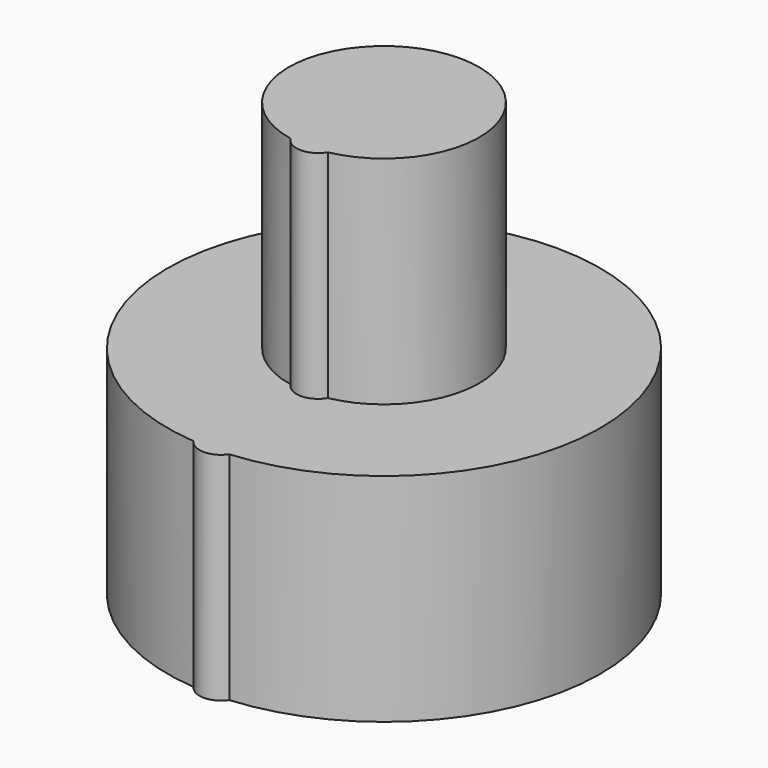
from build123d import *

# Parameters (mm, degrees)
CYLINDER007_R     = 5
CYLINDER007_DEPTH = 5
CYLINDER008_R     = 2.2
CYLINDER008_DEPTH = 10
CYLINDER006_R     = 0.5
CYLINDER006_DEPTH = 10
CYLINDER005_R     = 0.5
CYLINDER005_DEPTH = 5


with BuildPart() as cylinder006:
    # Cylinder007 → Cylinder007 (new body)
    with BuildSketch(Plane.XY):
        Circle(CYLINDER007_R)
    extrude(amount=CYLINDER007_DEPTH)


with BuildPart() as cylinder007:
    # Cylinder008 → Cylinder008 (new body)
    with BuildSketch(Plane.XY):
        Circle(CYLINDER008_R)
    extrude(amount=CYLINDER008_DEPTH)


with BuildPart() as cylinder005:
    # Cylinder006 → Cylinder006 (new body)
    with BuildSketch(Plane(origin=(0, -1.9, 0), x_dir=(1, 0, 0), z_dir=(0, 0, 1))):
        Circle(CYLINDER006_R)
    extrude(amount=CYLINDER006_DEPTH)


with BuildPart() as m4:
    # Cylinder005 → Cylinder005 (new body)
    with BuildSketch(Plane(origin=(0, -4.7, 0), x_dir=(1, 0, 0), z_dir=(0, 0, 1))):
        Circle(CYLINDER005_R)
    extrude(amount=CYLINDER005_DEPTH)

    # Fusion008: union Cylinder006, Cylinder007, Cylinder005
    add(cylinder006.part)
    add(cylinder007.part)
    add(cylinder005.part)


solid = m4.part
